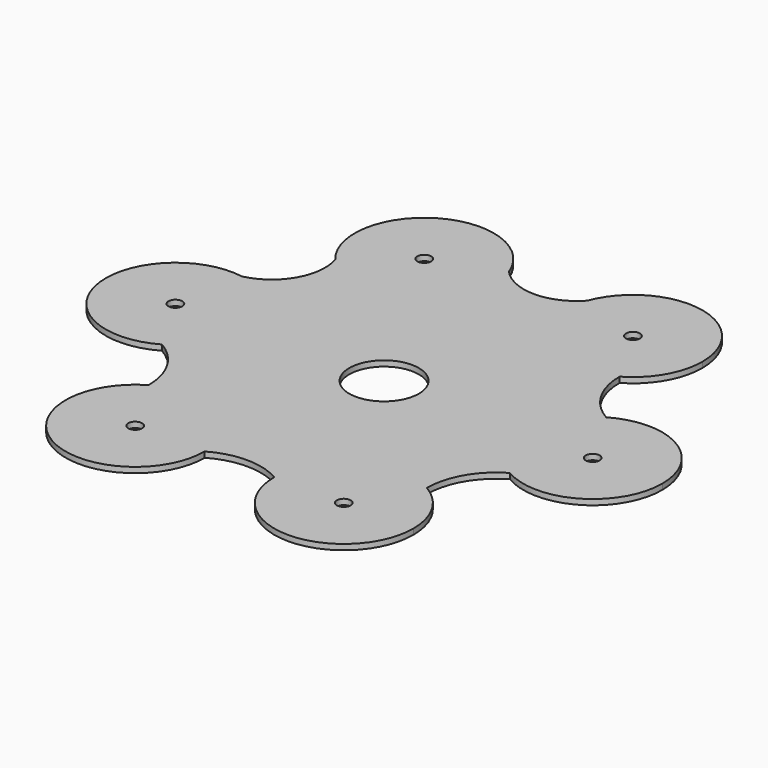
from build123d import *

# Parameters (mm, degrees)
F0_R     = 7.5
F0_R_2   = 1.5
F1_DEPTH = 1.2


with BuildPart() as f1:
    # F0 (on Top) → F1 (new body)
    with BuildSketch(Plane.XY):
        with BuildLine():
            ThreePointArc((-8.441312, 44.201179), (-7.737203, 41.628178), (-7.5, 38.971143))
            ThreePointArc((-7.5, 38.971143), (-17.419662, 24.857669), (-34.058688, 29.41098))
            ThreePointArc((-34.058688, 29.41098), (-35.069793, 20.247554), (-42.5, 14.790199))
            ThreePointArc((-42.5, 14.790199), (-33.543561, 9.682458), (-30, 0))
            ThreePointArc((-30, 0), (-32.009619, -7.5), (-37.5, -12.990381))
            ThreePointArc((-37.5, -12.990381), (-32.009619, -18.480762), (-30, -25.980762))
            ThreePointArc((-30, -25.980762), (-15, -25.980762), (-7.5, -38.971143))
            ThreePointArc((-7.5, -38.971143), (0, -36.961524), (7.5, -38.971143))
            ThreePointArc((7.5, -38.971143), (15, -25.980762), (30, -25.980762))
            ThreePointArc((30, -25.980762), (32.009619, -18.480762), (37.5, -12.990381))
            ThreePointArc((37.5, -12.990381), (30, 0), (37.5, 12.990381))
            ThreePointArc((37.5, 12.990381), (32.009619, 18.480762), (30, 25.980762))
            ThreePointArc((30, 25.980762), (12.817542, 27.514704), (8.441312, 44.201179))
            ThreePointArc((8.441312, 44.201179), (0, 40.495108), (-8.441312, 44.201179))
        make_face()
        Circle(F0_R, mode=Mode.SUBTRACT)
        with BuildLine():
            ThreePointArc((-30, 0), (-33.543561, 9.682458), (-42.5, 14.790199))
            ThreePointArc((-42.5, 14.790199), (-59.762797, -2.657035), (-37.5, -12.990381))
            ThreePointArc((-37.5, -12.990381), (-32.009619, -7.5), (-30, 0))
        make_face()
        with Locations((-45, 0)):
            Circle(F0_R_2, mode=Mode.SUBTRACT)
        with BuildLine():
            ThreePointArc((-34.058688, 29.41098), (-17.419662, 24.857669), (-7.5, 38.971143))
            ThreePointArc((-7.5, 38.971143), (-7.737203, 41.628178), (-8.441312, 44.201179))
            ThreePointArc((-8.441312, 44.201179), (-30, 51.961524), (-34.058688, 29.41098))
        make_face()
        with Locations((-22.5, 38.971143)):
            Circle(F0_R_2, mode=Mode.SUBTRACT)
        with BuildLine():
            ThreePointArc((37.5, 38.971143), (25.157035, 53.73394), (8.441312, 44.201179))
            ThreePointArc((8.441312, 44.201179), (12.817542, 27.514704), (30, 25.980762))
            ThreePointArc((30, 25.980762), (35.490381, 31.471143), (37.5, 38.971143))
        make_face()
        with Locations((22.5, 38.971143)):
            Circle(F0_R_2, mode=Mode.SUBTRACT)
        with BuildLine():
            ThreePointArc((60, 0), (52.5, 12.990381), (37.5, 12.990381))
            ThreePointArc((37.5, 12.990381), (30, 0), (37.5, -12.990381))
            ThreePointArc((37.5, -12.990381), (52.5, -12.990381), (60, 0))
        make_face()
        with Locations((45, 0)):
            Circle(F0_R_2, mode=Mode.SUBTRACT)
        with BuildLine():
            ThreePointArc((37.5, -38.971143), (35.490381, -31.471143), (30, -25.980762))
            ThreePointArc((30, -25.980762), (15, -25.980762), (7.5, -38.971143))
            ThreePointArc((7.5, -38.971143), (22.5, -53.971143), (37.5, -38.971143))
        make_face()
        with Locations((22.5, -38.971143)):
            Circle(F0_R_2, mode=Mode.SUBTRACT)
        with BuildLine():
            ThreePointArc((-7.5, -38.971143), (-15, -25.980762), (-30, -25.980762))
            ThreePointArc((-30, -25.980762), (-30, -51.961524), (-7.5, -38.971143))
        make_face()
        with Locations((-22.5, -38.971143)):
            Circle(F0_R_2, mode=Mode.SUBTRACT)
    extrude(amount=F1_DEPTH)


solid = f1.part
